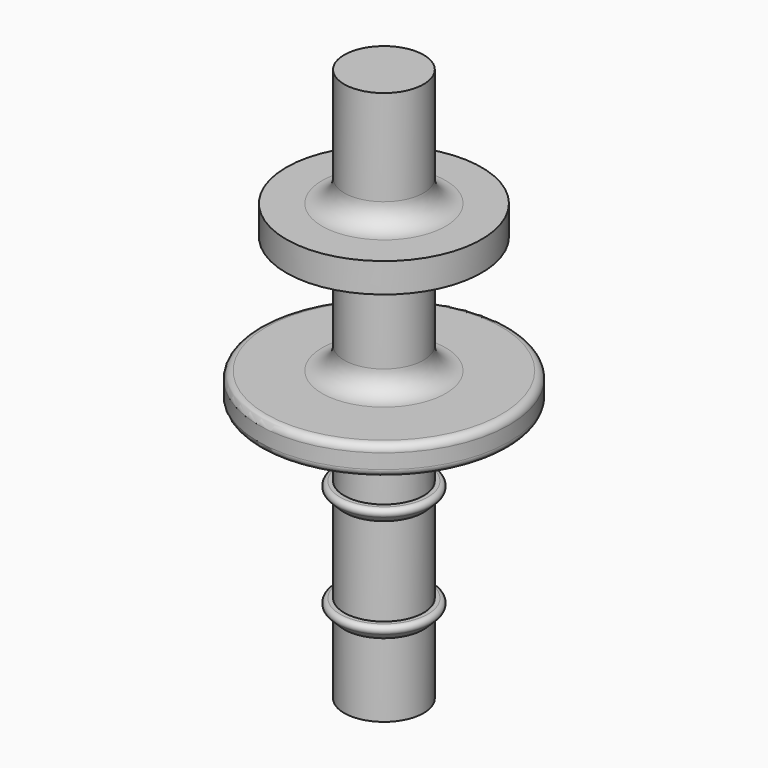
from build123d import *


with BuildPart() as f1:
    # F0 (on Front) → F1 (revolve)
    with BuildSketch(Plane.XZ):
        with BuildLine():
            Line((-27.575879, -18.449241), (-27.575879, -23.449241))
            Line((-27.575879, -23.449241), (-25.164554, -23.449241))
            Line((-25.164554, -23.449241), (-24.875879, -22.949241))
            Line((-24.875879, -22.949241), (-24.875879, 14.150759))
            Line((-24.875879, 14.150759), (-27.575879, 14.150759))
            Line((-27.575879, 14.150759), (-27.575879, 7.650759))
            ThreePointArc((-27.575879, 7.650759), (-28.015218, 6.590099), (-29.075879, 6.150759))
            Line((-29.075879, 6.150759), (-31.507415, 6.150759))
            Line((-31.507415, 6.150759), (-31.507415, 4.150759))
            Line((-31.507415, 4.150759), (-29.075879, 4.150759))
            ThreePointArc((-29.075879, 4.150759), (-28.015218, 3.711419), (-27.575879, 2.650759))
            Line((-27.575879, 2.650759), (-27.575879, -2.349241))
            ThreePointArc((-27.575879, -2.349241), (-28.015218, -3.409901), (-29.075879, -3.849241))
            Line((-29.075879, -3.849241), (-32.875879, -3.849241))
            ThreePointArc((-32.875879, -3.849241), (-33.229432, -3.995688), (-33.375879, -4.349241))
            Line((-33.375879, -4.349241), (-33.375879, -5.349241))
            ThreePointArc((-33.375879, -5.349241), (-33.229432, -5.702794), (-32.875879, -5.849241))
            Line((-32.875879, -5.849241), (-29.075879, -5.849241))
            ThreePointArc((-29.075879, -5.849241), (-28.015218, -6.288581), (-27.575879, -7.349241))
            Line((-27.575879, -7.349241), (-27.575879, -10.449241))
            Line((-27.575879, -10.449241), (-27.851615, -10.449241))
            ThreePointArc((-27.851615, -10.449241), (-28.128778, -10.634436), (-28.063747, -10.961373))
            Line((-28.063747, -10.961373), (-27.575879, -11.449241))
            Line((-27.575879, -11.449241), (-27.575879, -17.449241))
            Line((-27.575879, -17.449241), (-27.851615, -17.449241))
            ThreePointArc((-27.851615, -17.449241), (-28.128778, -17.634436), (-28.063747, -17.961373))
            Line((-28.063747, -17.961373), (-27.575879, -18.449241))
        make_face()
    revolve(axis=Axis((-24.875879, 0, -4.399241), (0, 0, -1)))


solid = f1.part
